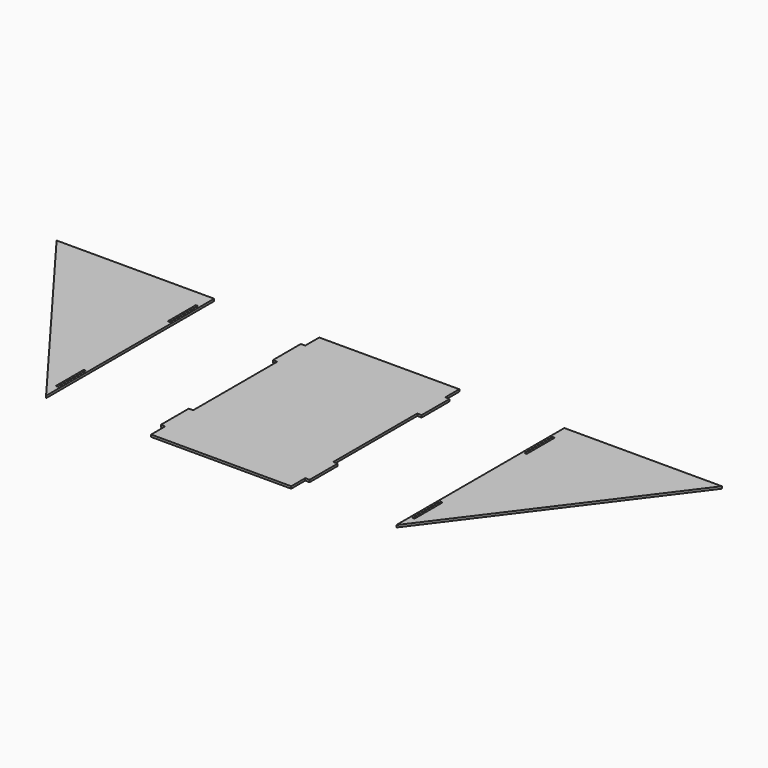
from build123d import *

# Parameters (mm, degrees)
F0_W     = 3.175
F0_H     = 50.8
F1_DEPTH = 3.175


with BuildPart() as f1:
    # F0 (on Top) → F1 (new body)
    with BuildSketch(Plane.XY):
        Polygon((101.6, 152.4), (0, 152.4), (-101.6, 152.4), (-101.6, 127), (-107.95, 127), (-107.95, 76.2), (-101.6, 76.2), (-101.6, 0), (-101.6, -76.2), (-107.95, -76.2), (-107.95, -127), (-101.6, -127), (-101.6, -152.4), (0, -152.4), (101.6, -152.4), (101.6, -127), (107.95, -127), (107.95, -76.2), (101.6, -76.2), (101.6, 0), (101.6, 76.2), (107.95, 76.2), (107.95, 127), (101.6, 127), align=None)
        Polygon((-482.6, 152.4), (-254, -152.4), (-254, 152.4), align=None)
        with Locations((-258.7625, -101.6)):
            Rectangle(F0_W, F0_H, mode=Mode.SUBTRACT)
        with Locations((-258.7625, 101.6)):
            Rectangle(F0_W, F0_H, mode=Mode.SUBTRACT)
        Polygon((254, 152.4), (254, -152.4), (482.6, 152.4), align=None)
        with Locations((258.7625, -101.6)):
            Rectangle(F0_W, F0_H, mode=Mode.SUBTRACT)
        with Locations((258.7625, 101.6)):
            Rectangle(F0_W, F0_H, mode=Mode.SUBTRACT)
    extrude(amount=F1_DEPTH)


solid = f1.part
